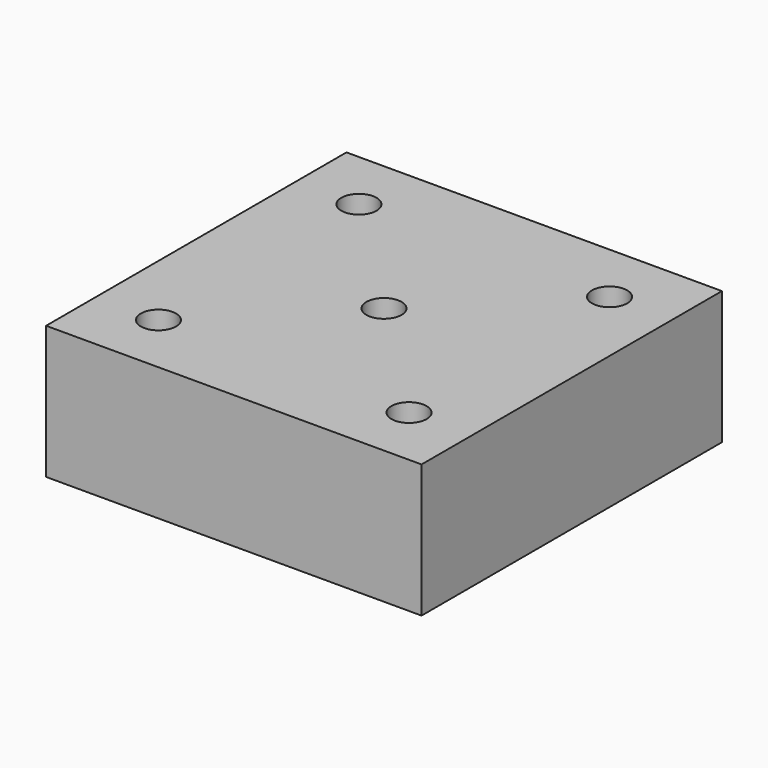
from build123d import *

# Parameters (mm, degrees)
F0_W     = 50.8
F0_H     = 50.8
F0_R     = 2.38125
F1_DEPTH = 18.0086


with BuildPart() as f1:
    # F0 (on Top) → F1 (new body)
    with BuildSketch(Plane.XY):
        Rectangle(F0_W, F0_H)
        with Locations((-16.954627, -16.954627)):
            Circle(F0_R, mode=Mode.SUBTRACT)
        Circle(F0_R, mode=Mode.SUBTRACT)
        with Locations((16.954627, -16.954627)):
            Circle(F0_R, mode=Mode.SUBTRACT)
        with Locations((-16.954627, 16.954627)):
            Circle(F0_R, mode=Mode.SUBTRACT)
        with Locations((16.954627, 16.954627)):
            Circle(F0_R, mode=Mode.SUBTRACT)
    extrude(amount=F1_DEPTH)


solid = f1.part
